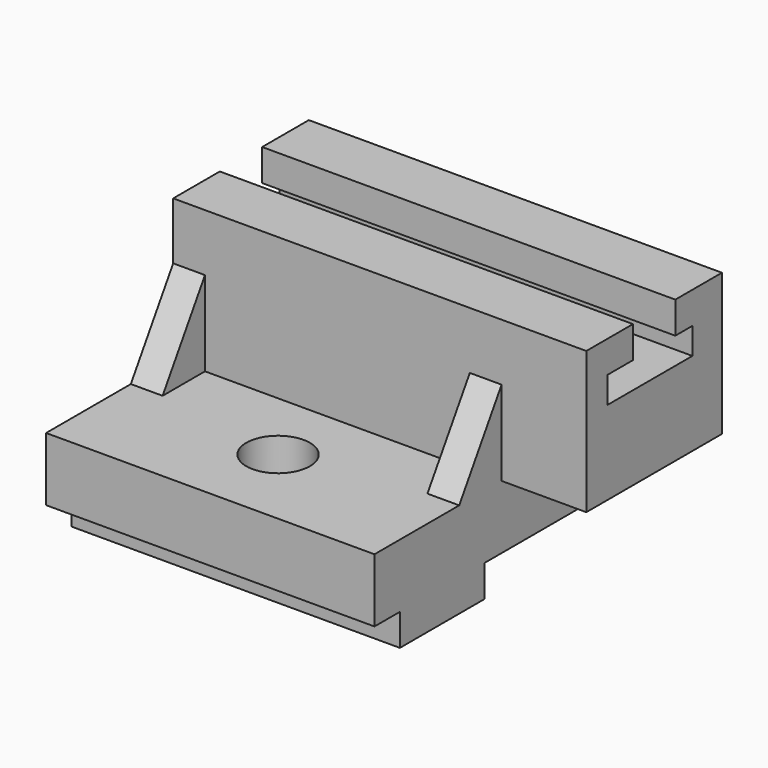
from build123d import *

# Parameters (mm, degrees)
F0_W      = 98.425
F0_H      = 19.05
F1_DEPTH  = 98.425
F2_W      = 123.825
F2_H      = 50.8
F3_DEPTH  = 42.545
F5_W      = 9.525
F5_H      = 25.4
F6_DEPTH  = 15.875
F8_DEPTH  = 123.826
F9_W      = 9.525
F9_H      = 25.4
F10_DEPTH = 15.875
F12_DEPTH = 98.426
F13_W     = 31.75
F13_H     = 9.525
F14_DEPTH = 98.425
F15_DEPTH = 123.826
F16_R     = 9.525
F17_DEPTH = 28.576


with BuildPart() as f1:
    # F0 (on Front) → F1 (new body)
    with BuildSketch(Plane.XZ):
        with Locations((-42.737771, 20.002501)):
            Rectangle(F0_W, F0_H)
    extrude(amount=F1_DEPTH)

    # F2 (on face) → F3 (join)
    with BuildSketch(Plane.XY.offset(29.527501)):
        with Locations((-30.037771, -25.4)):
            Rectangle(F2_W, F2_H)
    extrude(amount=F3_DEPTH)

    # F5 (on face) → F6 (join)
    with BuildSketch(Plane.XZ.offset(50.8)):
        with Locations((-87.187771, 42.227501)):
            Rectangle(F5_W, F5_H)
    extrude(amount=F6_DEPTH)

    # F7 (on face) → F8 (cut, through all)
    with BuildSketch(Plane(origin=(-91.950271, 0, 0), x_dir=(0, -1, 0), z_dir=(-1, 0, 0))):
        Polygon((66.675, 54.927501), (50.8, 54.927501), (66.675, 29.527501), align=None)
    extrude(amount=-F8_DEPTH, mode=Mode.SUBTRACT)

    # F9 (on face) → F10 (join)
    with BuildSketch(Plane.XZ.offset(50.8)):
        with Locations((1.712229, 42.227501)):
            Rectangle(F9_W, F9_H)
    extrude(amount=F10_DEPTH)

    # F11 (on face) → F12 (cut, through all)
    with BuildSketch(Plane.YZ.offset(6.474729)):
        Polygon((-66.675, 29.527501), (-50.8, 54.927501), (-66.675, 54.927501), align=None)
    extrude(amount=-F12_DEPTH, mode=Mode.SUBTRACT)

    # F13 (on face) → F14 (join)
    with BuildSketch(Plane.YZ.offset(6.474729)):
        with Locations((-73.025, 5.715001)):
            Rectangle(F13_W, F13_H)
    extrude(amount=-F14_DEPTH)

    # F4 (on face) → F15 (cut, through all)
    with BuildSketch(Plane(origin=(-91.950271, 0, 0), x_dir=(0, -1, 0), z_dir=(-1, 0, 0))):
        Polygon((33.3375, 72.072501), (17.4625, 72.072501), (17.4625, 62.547501), (11.065112, 62.547501), (11.065112, 54.610001), (42.815112, 54.610001), (42.815112, 62.547501), (33.3375, 62.547501), align=None)
    extrude(amount=-F15_DEPTH, mode=Mode.SUBTRACT)

    # F16 (on face) → F17 (cut, through all)
    with BuildSketch(Plane.XY.offset(29.527501)):
        with Locations((-42.737771, -73.025)):
            Circle(F16_R)
    extrude(amount=-F17_DEPTH, mode=Mode.SUBTRACT)


solid = f1.part
